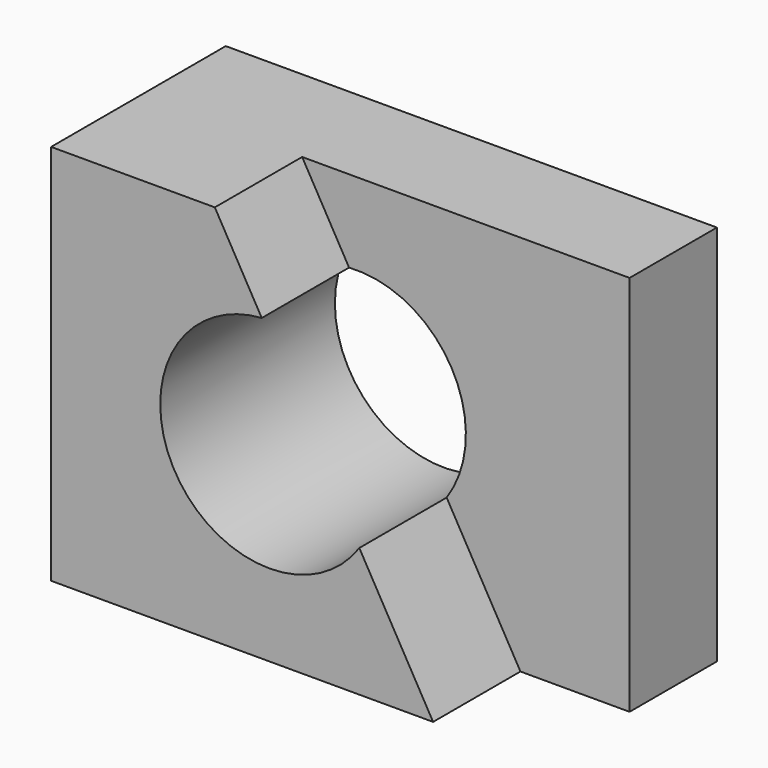
from build123d import *

# Parameters (mm, degrees)
F0_W     = 57.15
F0_H     = 44.45
F1_DEPTH = 25.4
F3_DEPTH = 12.7
F4_R     = 12.7
F5_DEPTH = 25.4


with BuildPart() as f1:
    # F0 (on Front) → F1 (new body)
    with BuildSketch(Plane.XZ):
        with Locations((28.575, 22.225)):
            Rectangle(F0_W, F0_H)
    extrude(amount=F1_DEPTH)

    # F2 (on face) → F3 (cut)
    with BuildSketch(Plane.XZ.offset(25.4)):
        Polygon((57.15, 44.45), (19.05, 44.45), (44.45, 0), (57.15, 0), align=None)
    extrude(amount=-F3_DEPTH, mode=Mode.SUBTRACT)

    # F4 (on face) → F5 (cut)
    with BuildSketch(Plane(origin=(0, 0, 0), x_dir=(-1, 0, 0), z_dir=(0, 1, 0))):
        with Locations((-25.4, 22.225)):
            Circle(F4_R)
    extrude(amount=-F5_DEPTH, mode=Mode.SUBTRACT)


solid = f1.part
